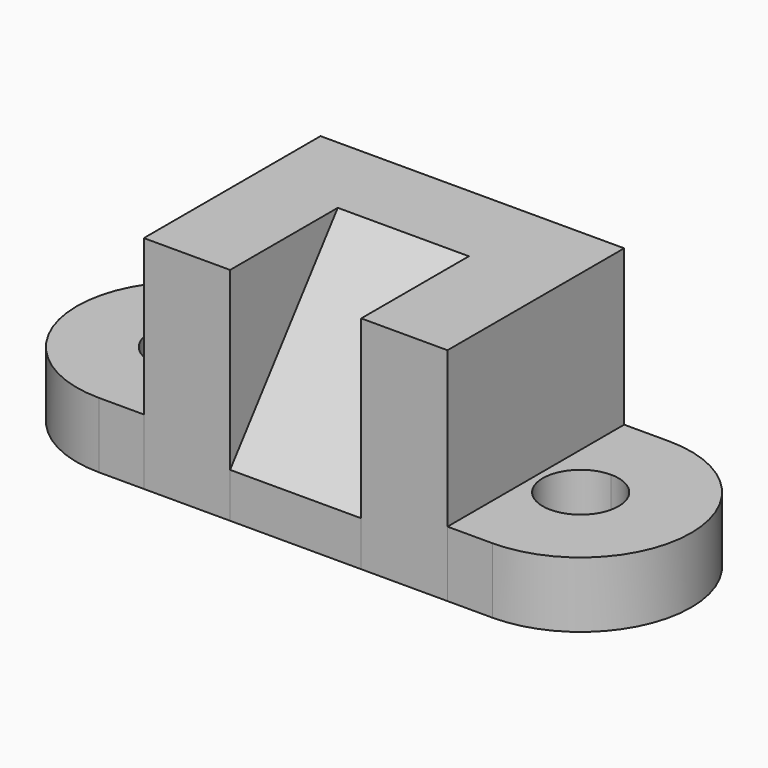
from build123d import *

# Parameters (mm, degrees)
F1_DEPTH = 19
F2_DEPTH = 64
F4_DEPTH = 38


with BuildPart() as f1:
    # F0 (on Top) → F1 (new body)
    with BuildSketch(Plane.XY):
        with BuildLine():
            Line((-57, 11), (-57, 32))
            ThreePointArc((-57, 32), (-89, 0), (-57, -32))
            Line((-57, -32), (-57, -11))
            ThreePointArc((-57, -11), (-68, 0), (-57, 11))
        make_face()
        with BuildLine():
            Line((-44, -32), (-44, 32))
            Line((-44, 32), (-57, 32))
            Line((-57, 32), (-57, 11))
            ThreePointArc((-57, 11), (-49.221825, 7.778175), (-46, 0))
            ThreePointArc((-46, 0), (-49.221825, -7.778175), (-57, -11))
            Line((-57, -11), (-57, -32))
            Line((-57, -32), (-44, -32))
        make_face()
        with BuildLine():
            Line((57, 11), (57, 32))
            Line((57, 32), (44, 32))
            Line((44, 32), (44, -32))
            Line((44, -32), (57, -32))
            Line((57, -32), (57, -11))
            ThreePointArc((57, -11), (46, 0), (57, 11))
        make_face()
        with BuildLine():
            ThreePointArc((57, -32), (89, 0), (57, 32))
            Line((57, 32), (57, 11))
            ThreePointArc((57, 11), (64.778175, 7.778175), (68, 0))
            ThreePointArc((68, 0), (64.778175, -7.778175), (57, -11))
            Line((57, -11), (57, -32))
        make_face()
    extrude(amount=F1_DEPTH)


with BuildPart() as f2:
    # F0 (on Top) → F2 (new body)
    with BuildSketch(Plane.XY):
        Polygon((44, -32), (44, 32), (-44, 32), (-44, -32), (-19, -32), (-19, 7), (19, 7), (19, -32), align=None)
    extrude(amount=F2_DEPTH)


with BuildPart() as f4:
    # F3 (on face) → F4 (new body)
    with BuildSketch(Plane.YZ.offset(-19)):
        Polygon((7, 64), (-32, 13), (-32, 0), (7, 0), align=None)
    extrude(amount=F4_DEPTH)


solid = Compound([f1.part, f2.part, f4.part])
